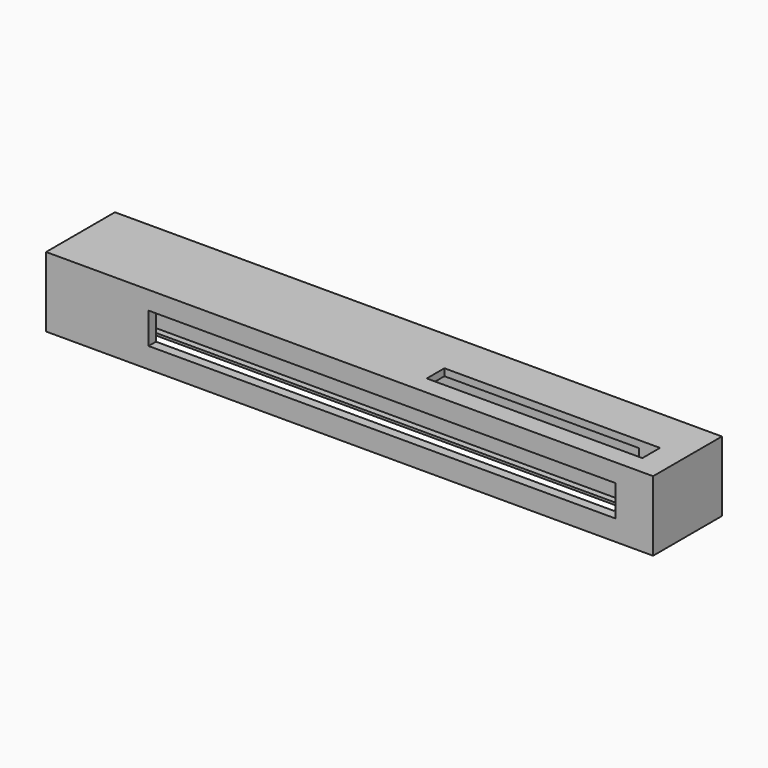
from build123d import *

# Parameters (mm, degrees)
F0_W     = 130
F0_H     = 18.43
F0_W_2   = 46.176888
F0_H_2   = 4.73
F1_DEPTH = 15
F2_W     = 7
F2_H     = 0.5
F3_DEPTH = 120
F4_W     = 100
F4_H     = 6.68
F5_DEPTH = 5


with BuildPart() as f1:
    # F0 (on Top) → F1 (new body)
    with BuildSketch(Plane.XY):
        Rectangle(F0_W, F0_H)
        with Locations((36.411556, -2.85)):
            Rectangle(F0_W_2, F0_H_2, mode=Mode.SUBTRACT)
    extrude(amount=F1_DEPTH)

    # F2 (on face) → F3 (cut)
    with BuildSketch(Plane(origin=(-65, 0, 0), x_dir=(0, -1, 0), z_dir=(-1, 0, 0))):
        Polygon((7.215, 13.5), (-2.485, 13.5), (-2.485, 0.5), (-1.135, 0.5), (5.865, 0.5), (7.215, 0.5), align=None)
        with Locations((2.365, 0.25)):
            Rectangle(F2_W, F2_H)
        Polygon((-7.215, 11.35), (-9.215, 11.35), (-9.215, 9.35), (-7.215, 9.35), (-7.215, 7.7), (-5.215, 7.7), (-5.215, 13), (-7.215, 13), align=None)
    extrude(amount=-F3_DEPTH, mode=Mode.SUBTRACT)

    # F4 (on face) → F5 (cut)
    with BuildSketch(Plane.XZ.offset(9.215)):
        with Locations((6.941007, 7.75)):
            Rectangle(F4_W, F4_H)
    extrude(amount=-F5_DEPTH, mode=Mode.SUBTRACT)


solid = f1.part
